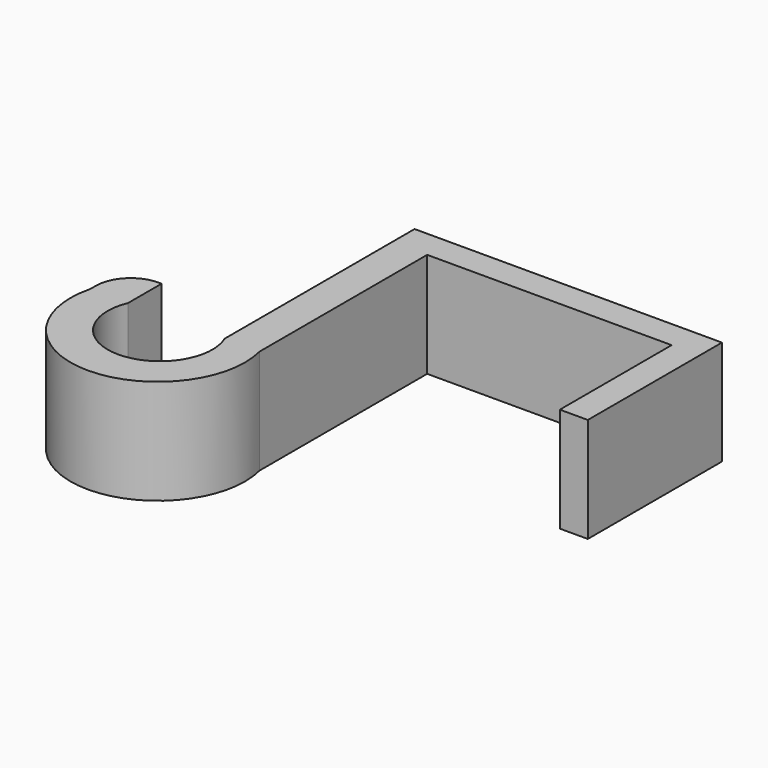
from build123d import *

# Parameters (mm, degrees)
F1_DEPTH = 19.05


with BuildPart() as f1:
    # F0 (on Top) → F1 (new body)
    with BuildSketch(Plane.XY):
        with BuildLine():
            Line((-30.783646, 1.27), (-30.783646, 0))
            ThreePointArc((-30.783646, 0), (-15.391823, -19.761825), (0, 0))
            Line((0, 0), (0, 38.1))
            Line((0, 38.1), (44.45, 38.1))
            Line((44.45, 38.1), (44.45, 12.7))
            Line((44.45, 12.7), (49.53, 12.7))
            Line((49.53, 12.7), (49.53, 43.18))
            Line((49.53, 43.18), (0, 43.18))
            Line((0, 43.18), (-6.35, 43.18))
            Line((-6.35, 43.18), (-6.35, 0))
            ThreePointArc((-6.35, 0), (-15.125306, -13.229003), (-23.900611, 0))
            Line((-23.900611, 0), (-23.900611, 7.62))
            Line((-23.900611, 7.62), (-24.433646, 7.62))
            ThreePointArc((-24.433646, 7.62), (-28.923774, 5.760128), (-30.783646, 1.27))
        make_face()
    extrude(amount=F1_DEPTH)


solid = f1.part
